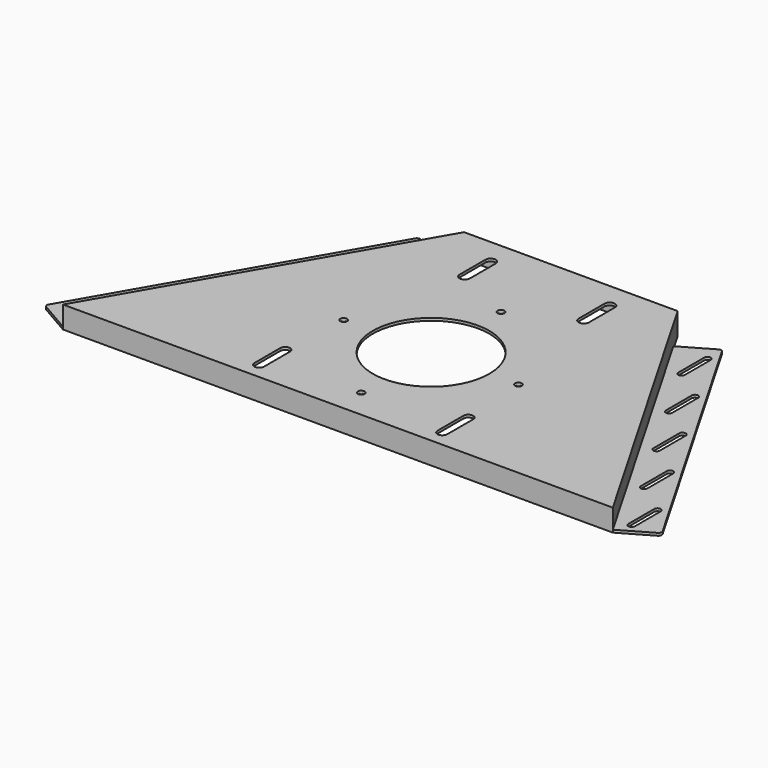
from build123d import *

# Parameters (mm, degrees)
F1_DEPTH  = 4
F2_R      = 5.25
F2_R_2    = 90
F2_W      = 16
F2_H      = 50
F3_DEPTH  = 25
F5_DEPTH  = 30
F7_DEPTH  = 4
F8_W      = 10
F8_H      = 50
F8_R      = 5.25
F9_DEPTH  = 34.001
F10_R     = 5
F11_R     = 5
F12_DEPTH = 10
F13_W     = 15
F13_H     = 50
F14_DEPTH = 34.001


with BuildPart() as f1:
    # F0 (on Top) → F1 (new body)
    with BuildSketch(Plane.XY):
        Polygon((-424.8076211353, -344.4022295104), (0, -344.4022295104), (424.8076211353, -344.4022295104), (165, 105.5977704896), (0, 105.5977704896), (-165, 105.5977704896), align=None)
    extrude(amount=F1_DEPTH)

    # F2 (on face) → F3 (cut)
    with BuildSketch(Plane.XY.offset(4)):
        with Locations((0, -29.4022295104)):
            Circle(F2_R)
        with Locations((0, -299.4022295104)):
            Circle(F2_R)
        with Locations((-135, -164.4022295104)):
            Circle(F2_R)
        with Locations((135, -164.4022295104)):
            Circle(F2_R)
        with Locations((0, -164.4022295104)):
            Circle(F2_R_2)
        with BuildLine():
            ThreePointArc((-100, 15.5977704896), (-92, 7.5977704896), (-84, 15.5977704896))
            Line((-84, 15.5977704896), (-100, 15.5977704896))
        make_face()
        with Locations((-92, 40.5977704896)):
            Rectangle(F2_W, F2_H)
        with BuildLine():
            Line((-100, 65.5977704896), (-84, 65.5977704896))
            ThreePointArc((-84, 65.5977704896), (-92, 73.5977704896), (-100, 65.5977704896))
        make_face()
        with Locations((92, 40.5977704896)):
            Rectangle(F2_W, F2_H)
        with BuildLine():
            Line((100, 15.5977704896), (84, 15.5977704896))
            ThreePointArc((84, 15.5977704896), (92, 7.5977704896), (100, 15.5977704896))
        make_face()
        with BuildLine():
            ThreePointArc((100, 65.5977704896), (92, 73.5977704896), (84, 65.5977704896))
            Line((84, 65.5977704896), (100, 65.5977704896))
        make_face()
    extrude(amount=-F3_DEPTH, mode=Mode.SUBTRACT)

    # F4 (on face) → F5 (join)
    with BuildSketch(Plane(origin=(0, 0, 0), x_dir=(1, 0, 0), z_dir=(0, 0, -1))):
        Polygon((-161.5358983849, -103.5977704896), (-165, -105.5977704896), (165, -105.5977704896), (161.5358983849, -103.5977704896), (162.6905989232, -101.5977704896), (-162.6905989232, -101.5977704896), align=None)
        Polygon((-422.4982200586, 340.4022295104), (-165, -105.5977704896), (-165, -101.5977704896), (-162.6905989232, -101.5977704896), (-417.8794179051, 340.4022295104), align=None)
        Polygon((-165, -101.5977704896), (-165, -105.5977704896), (-161.5358983849, -103.5977704896), (-162.6905989232, -101.5977704896), align=None)
        Polygon((161.5358983849, -103.5977704896), (165, -105.5977704896), (165, -101.5977704896), (162.6905989232, -101.5977704896), align=None)
        Polygon((165, -101.5977704896), (165, -105.5977704896), (422.4982200586, 340.4022295104), (417.8794179051, 340.4022295104), (162.6905989232, -101.5977704896), align=None)
        Polygon((-423.652920597, 342.4022295104), (-422.4982200586, 340.4022295104), (-417.8794179051, 340.4022295104), (-420.1888189818, 344.4022295104), align=None)
        Polygon((417.8794179051, 340.4022295104), (422.4982200586, 340.4022295104), (424.8076211353, 344.4022295104), (420.1888189818, 344.4022295104), align=None)
        Polygon((-420.1888189818, 344.4022295104), (-417.8794179051, 340.4022295104), (417.8794179051, 340.4022295104), (420.1888189818, 344.4022295104), align=None)
        Polygon((-424.8076211353, 344.4022295104), (-423.652920597, 342.4022295104), (-420.1888189818, 344.4022295104), align=None)
    extrude(amount=F5_DEPTH)

    # F6 (on face) → F7 (join)
    with BuildSketch(Plane(origin=(0, 0, -30), x_dir=(1, 0, 0), z_dir=(0, 0, -1))):
        Polygon((-424.8076211353, 344.4022295104), (-476.7691453624, 314.4022295104), (-234.2820323028, -105.5977704896), (-182.3205080757, -75.5977704896), align=None)
        Polygon((234.2820323028, -105.5977704896), (476.7691453624, 314.4022295104), (424.8076211353, 344.4022295104), (182.3205080757, -75.5977704896), align=None)
    extrude(amount=-F7_DEPTH)

    # F8 (on face) → F9 (cut, through all)
    with BuildSketch(Plane(origin=(0, 0, -30), x_dir=(1, 0, 0), z_dir=(0, 0, -1))):
        with BuildLine():
            ThreePointArc((-240, -75.5977704896), (-235, -80.5977704896), (-230, -75.5977704896))
            Line((-230, -75.5977704896), (-240, -75.5977704896))
        make_face()
        with Locations((-235, -50.5977704896)):
            Rectangle(F8_W, F8_H)
        with BuildLine():
            Line((-240, -25.5977704896), (-230, -25.5977704896))
            ThreePointArc((-230, -25.5977704896), (-235, -20.5977704896), (-240, -25.5977704896))
        make_face()
        with Locations((0, 29.4022295104)):
            Circle(F8_R)
        with BuildLine():
            ThreePointArc((-290, 11.0047698888), (-285, 6.0047698888), (-280, 11.0047698888))
            Line((-280, 11.0047698888), (-280, 61.0047698888))
            ThreePointArc((-280, 61.0047698888), (-285, 66.0047698888), (-290, 61.0047698888))
            Line((-290, 61.0047698888), (-290, 11.0047698888))
        make_face()
        with BuildLine():
            ThreePointArc((-340, 97.6073102673), (-335, 92.6073102673), (-330, 97.6073102673))
            Line((-330, 97.6073102673), (-330, 147.6073102673))
            ThreePointArc((-330, 147.6073102673), (-335, 152.6073102673), (-340, 147.6073102673))
            Line((-340, 147.6073102673), (-340, 97.6073102673))
        make_face()
        with BuildLine():
            ThreePointArc((-390, 184.2098506457), (-385, 179.2098506457), (-380, 184.2098506457))
            Line((-380, 184.2098506457), (-380, 234.2098506457))
            ThreePointArc((-380, 234.2098506457), (-385, 239.2098506457), (-390, 234.2098506457))
            Line((-390, 234.2098506457), (-390, 184.2098506457))
        make_face()
        with BuildLine():
            ThreePointArc((-440, 270.8123910242), (-435, 265.8123910242), (-430, 270.8123910242))
            Line((-430, 270.8123910242), (-430, 320.8123910242))
            ThreePointArc((-430, 320.8123910242), (-435, 325.8123910242), (-440, 320.8123910242))
            Line((-440, 320.8123910242), (-440, 270.8123910242))
        make_face()
        with BuildLine():
            ThreePointArc((380, 184.2098506457), (385, 179.2098506457), (390, 184.2098506457))
            Line((390, 184.2098506457), (390, 234.2098506457))
            ThreePointArc((390, 234.2098506457), (385, 239.2098506457), (380, 234.2098506457))
            Line((380, 234.2098506457), (380, 184.2098506457))
        make_face()
        with BuildLine():
            ThreePointArc((430, 270.8123910242), (435, 265.8123910242), (440, 270.8123910242))
            Line((440, 270.8123910242), (440, 320.8123910242))
            ThreePointArc((440, 320.8123910242), (435, 325.8123910242), (430, 320.8123910242))
            Line((430, 320.8123910242), (430, 270.8123910242))
        make_face()
        with BuildLine():
            ThreePointArc((340, 147.6073102673), (335, 152.6073102673), (330, 147.6073102673))
            Line((330, 147.6073102673), (330, 97.6073102673))
            ThreePointArc((330, 97.6073102673), (335, 92.6073102673), (340, 97.6073102673))
            Line((340, 97.6073102673), (340, 147.6073102673))
        make_face()
        with Locations((235, -50.5977704896)):
            Rectangle(F8_W, F8_H)
        with BuildLine():
            Line((240, -75.5977704896), (230, -75.5977704896))
            ThreePointArc((230, -75.5977704896), (235, -80.5977704896), (240, -75.5977704896))
        make_face()
        with BuildLine():
            ThreePointArc((240, -25.5977704896), (235, -20.5977704896), (230, -25.5977704896))
            Line((230, -25.5977704896), (240, -25.5977704896))
        make_face()
        with BuildLine():
            ThreePointArc((280, 11.0047698888), (285, 6.0047698888), (290, 11.0047698888))
            Line((290, 11.0047698888), (290, 61.0047698888))
            ThreePointArc((290, 61.0047698888), (285, 66.0047698888), (280, 61.0047698888))
            Line((280, 61.0047698888), (280, 11.0047698888))
        make_face()
    extrude(amount=-F9_DEPTH, mode=Mode.SUBTRACT)

    # F10
    f10_edges = [f1.edges().sort_by_distance(p)[0] for p in [
        (-476.769145, -314.40223, -28),
        (-234.282032, 105.59777, -28),
        (234.282032, 105.59777, -28),
        (476.769145, -314.40223, -28),
    ]]
    fillet(f10_edges, radius=F10_R)

    # F11 (on face) → F12 (join)
    with BuildSketch(Plane(origin=(0, 0, 0), x_dir=(1, 0, 0), z_dir=(0, 0, -1))):
        Polygon((-135, 154.5872749342), (-126.5, 159.4947522223), (-126.5, 169.3097067985), (-135, 174.2171840866), (-143.5, 169.3097067985), (-143.5, 159.4947522223), align=None)
        with Locations((-135, 164.4022295104)):
            Circle(F11_R, mode=Mode.SUBTRACT)
        Polygon((126.5, 159.4947522223), (135, 154.5872749342), (143.5, 159.4947522223), (143.5, 169.3097067985), (135, 174.2171840866), (126.5, 169.3097067985), align=None)
        with Locations((135, 164.4022295104)):
            Circle(F11_R, mode=Mode.SUBTRACT)
        Polygon((-8.5, 294.4947522223), (0, 289.5872749342), (8.5, 294.4947522223), (8.5, 304.3097067985), (0, 309.2171840866), (-8.5, 304.3097067985), align=None)
        with Locations((0, 299.4022295104)):
            Circle(F11_R, mode=Mode.SUBTRACT)
        Polygon((0, 19.5872749342), (8.5, 24.4947522223), (8.5, 34.3097067985), (0, 39.2171840866), (-8.5, 34.3097067985), (-8.5, 24.4947522223), align=None)
        with Locations((0, 29.4022295104)):
            Circle(F11_R, mode=Mode.SUBTRACT)
    extrude(amount=F12_DEPTH)

    # F13 (on face) → F14 (cut, through all)
    with BuildSketch(Plane.XY.offset(4)):
        with BuildLine():
            ThreePointArc((-149, -319.4022295104), (-141.5, -326.9022295104), (-134, -319.4022295104))
            Line((-134, -319.4022295104), (-149, -319.4022295104))
        make_face()
        with Locations((-141.5, -294.4022295104)):
            Rectangle(F13_W, F13_H)
        with BuildLine():
            Line((-149, -269.4022295104), (-134, -269.4022295104))
            ThreePointArc((-134, -269.4022295104), (-141.5, -261.9022295104), (-149, -269.4022295104))
        make_face()
        with BuildLine():
            ThreePointArc((149, -269.4022295104), (141.5, -261.9022295104), (134, -269.4022295104))
            Line((134, -269.4022295104), (134, -319.4022295104))
            ThreePointArc((134, -319.4022295104), (141.5, -326.9022295104), (149, -319.4022295104))
            Line((149, -319.4022295104), (149, -269.4022295104))
        make_face()
    extrude(amount=-F14_DEPTH, mode=Mode.SUBTRACT)


solid = f1.part
